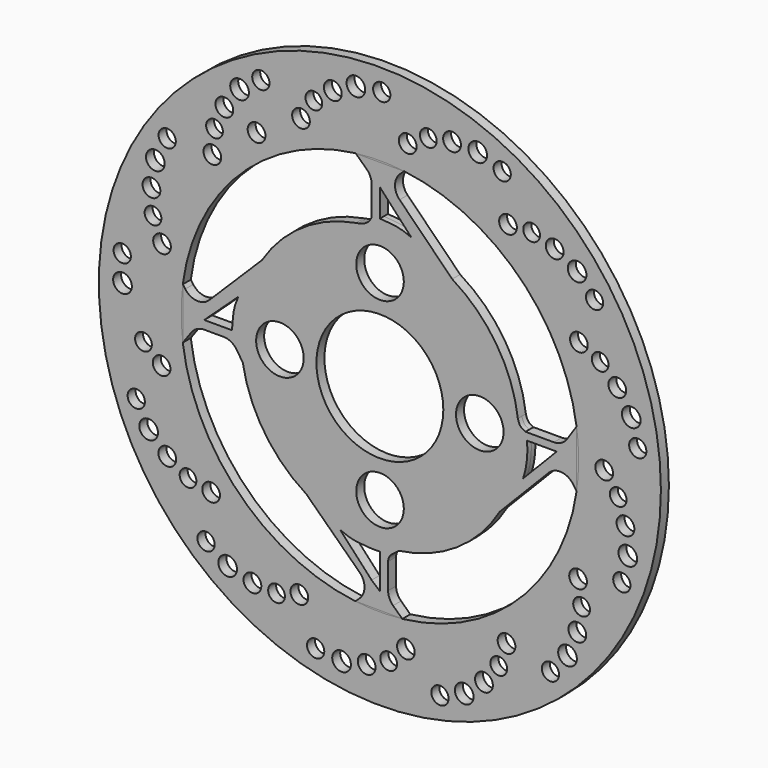
from build123d import *

# Parameters (mm, degrees)
F0_R     = 112.500029
F0_R_2   = 3.73884
F0_R_3   = 3.450075
F0_R_4   = 3.348833
F0_R_5   = 3.541332
F0_R_6   = 3.556889
F1_DEPTH = 1.999996
F0_R_7   = 9.525
F0_R_8   = 25.4
F2_DEPTH = 1.999996
F3_DEPTH = 1.999996


with BuildPart() as f1:
    # F0 (on Front) → F1 (new body, symmetric)
    with BuildSketch(Plane.XZ):
        with Locations((0.049277, 0)):
            Circle(F0_R)
        with Locations((-60.874927, -83.1059)):
            Circle(F0_R_2, mode=Mode.SUBTRACT)
        with Locations((-69.523909, -77.270985)):
            Circle(F0_R_3, mode=Mode.SUBTRACT)
        with Locations((-76.742804, -57.308087)):
            Circle(F0_R_4, mode=Mode.SUBTRACT)
        with Locations((-67.493449, -59.312052)):
            Circle(F0_R_5, mode=Mode.SUBTRACT)
        with Locations((-50.96903, -85.869931)):
            Circle(F0_R_6, mode=Mode.SUBTRACT)
        with Locations((-41.319982, -86.407951)):
            Circle(F0_R_4, mode=Mode.SUBTRACT)
        with Locations((-25.650747, -100.729431)):
            Circle(F0_R_3, mode=Mode.SUBTRACT)
        with Locations((-15.280834, -101.876609)):
            Circle(F0_R_2, mode=Mode.SUBTRACT)
        with Locations((-5.225088, -99.720537)):
            Circle(F0_R_6, mode=Mode.SUBTRACT)
        with Locations((-32.198796, -83.883984)):
            Circle(F0_R_5, mode=Mode.SUBTRACT)
        with Locations((-85.036582, -52.347558)):
            Circle(F0_R_6, mode=Mode.SUBTRACT)
        with Locations((-92.523309, -45.296631)):
            Circle(F0_R_2, mode=Mode.SUBTRACT)
        with Locations((-97.469981, -36.110688)):
            Circle(F0_R_3, mode=Mode.SUBTRACT)
        with Locations((-87.326166, -21.152445)):
            Circle(F0_R_5, mode=Mode.SUBTRACT)
        with Locations((-94.584774, -15.079632)):
            Circle(F0_R_4, mode=Mode.SUBTRACT)
        with Locations((24.098692, -101.111978)):
            Circle(F0_R_3, mode=Mode.SUBTRACT)
        with Locations((3.56875, -95.712793)):
            Circle(F0_R_4, mode=Mode.SUBTRACT)
        with Locations((10.472213, -89.239105)):
            Circle(F0_R_5, mode=Mode.SUBTRACT)
        with Locations((33.813915, -97.308615)):
            Circle(F0_R_2, mode=Mode.SUBTRACT)
        with Locations((41.715859, -90.72637)):
            Circle(F0_R_6, mode=Mode.SUBTRACT)
        with Locations((47.639924, -83.090989)):
            Circle(F0_R_4, mode=Mode.SUBTRACT)
        with Locations((50.744164, -74.150623)):
            Circle(F0_R_5, mode=Mode.SUBTRACT)
        with Locations((68.327411, -78.330989)):
            Circle(F0_R_3, mode=Mode.SUBTRACT)
        with Locations((75.162303, -70.44839)):
            Circle(F0_R_2, mode=Mode.SUBTRACT)
        with Locations((79.100205, -60.947885)):
            Circle(F0_R_6, mode=Mode.SUBTRACT)
        with Locations((80.797366, -51.43404)):
            Circle(F0_R_4, mode=Mode.SUBTRACT)
        with Locations((79.391239, -42.075127)):
            Circle(F0_R_5, mode=Mode.SUBTRACT)
        with Locations((96.903144, -37.605315)):
            Circle(F0_R_3, mode=Mode.SUBTRACT)
        with Locations((98.363648, -17.206974)):
            Circle(F0_R_6, mode=Mode.SUBTRACT)
        with Locations((99.291913, -27.449287)):
            Circle(F0_R_2, mode=Mode.SUBTRACT)
        with Locations((95.445105, -7.994173)):
            Circle(F0_R_4, mode=Mode.SUBTRACT)
        with Locations((89.850737, -0.360726)):
            Circle(F0_R_5, mode=Mode.SUBTRACT)
        with Locations((-102.975715, 2.889551)):
            Circle(F0_R_2, mode=Mode.SUBTRACT)
        with Locations((-103.086856, 13.322133)):
            Circle(F0_R_3, mode=Mode.SUBTRACT)
        with Locations((-87.153511, 21.852933)):
            Circle(F0_R_5, mode=Mode.SUBTRACT)
        with Locations((-90.758513, 30.603385)):
            Circle(F0_R_4, mode=Mode.SUBTRACT)
        with Locations((-91.38748, 40.246932)):
            Circle(F0_R_6, mode=Mode.SUBTRACT)
        with Locations((-89.837626, 50.413771)):
            Circle(F0_R_2, mode=Mode.SUBTRACT)
        with Locations((-85.087774, 59.703013)):
            Circle(F0_R_3, mode=Mode.SUBTRACT)
        with Locations((-67.015037, 59.852067)):
            Circle(F0_R_5, mode=Mode.SUBTRACT)
        with Locations((-66.14057, 69.275536)):
            Circle(F0_R_4, mode=Mode.SUBTRACT)
        with Locations((-62.215913, 78.106768)):
            Circle(F0_R_6, mode=Mode.SUBTRACT)
        with Locations((-49.311078, 73.368203)):
            Circle(F0_R_6, mode=Mode.SUBTRACT)
        with Locations((-31.524226, 84.139814)):
            Circle(F0_R_5, mode=Mode.SUBTRACT)
        with Locations((-56.11882, 86.388804)):
            Circle(F0_R_2, mode=Mode.SUBTRACT)
        with Locations((-47.596108, 92.406653)):
            Circle(F0_R_3, mode=Mode.SUBTRACT)
        with Locations((-26.370619, 92.077496)):
            Circle(F0_R_4, mode=Mode.SUBTRACT)
        with Locations((-18.79143, 98.073285)):
            Circle(F0_R_6, mode=Mode.SUBTRACT)
        with Locations((-9.543868, 102.573203)):
            Circle(F0_R_2, mode=Mode.SUBTRACT)
        with BuildLine():
            ThreePointArc((78.789182, 11.419107), (79.406696, 5.724388), (79.612891, 0))
            ThreePointArc((79.612891, 0), (79.406696, -5.724388), (78.789182, -11.419107))
            ThreePointArc((78.789182, -11.419107), (55.436125, -57.119749), (9.037934, -79.054239))
            ThreePointArc((9.037934, -79.054239), (-0.3546, -79.562589), (-9.741488, -78.958911))
            ThreePointArc((-9.741488, -78.958911), (-56.036633, -56.433496), (-78.847638, -10.278401))
            ThreePointArc((-78.847638, -10.278401), (-79.514338, 0), (-78.847638, 10.278401))
            ThreePointArc((-78.847638, 10.278401), (-56.006958, 56.462973), (-9.658465, 78.969161))
            ThreePointArc((-9.658465, 78.969161), (0.049277, 79.563614), (9.757018, 78.969161))
            ThreePointArc((9.757018, 78.969161), (55.695472, 56.867123), (78.789182, 11.419107))
        make_face(mode=Mode.SUBTRACT)
        with Locations((103.279534, 11.735284)):
            Circle(F0_R_3, mode=Mode.SUBTRACT)
        with Locations((100.674943, 21.838116)):
            Circle(F0_R_2, mode=Mode.SUBTRACT)
        with Locations((79.726515, 41.436312)):
            Circle(F0_R_5, mode=Mode.SUBTRACT)
        with Locations((95.093164, 30.475847)):
            Circle(F0_R_6, mode=Mode.SUBTRACT)
        with Locations((88.22752, 37.277064)):
            Circle(F0_R_4, mode=Mode.SUBTRACT)
        with Locations((51.337908, 73.740791)):
            Circle(F0_R_5, mode=Mode.SUBTRACT)
        with Locations((11.188406, 89.152144)):
            Circle(F0_R_5, mode=Mode.SUBTRACT)
        with Locations((19.440522, 93.785611)):
            Circle(F0_R_4, mode=Mode.SUBTRACT)
        with Locations((0.799252, 103.941042)):
            Circle(F0_R_3, mode=Mode.SUBTRACT)
        with Locations((28.937943, 95.572394)):
            Circle(F0_R_6, mode=Mode.SUBTRACT)
        with Locations((39.217469, 95.259317)):
            Circle(F0_R_2, mode=Mode.SUBTRACT)
        with Locations((49.011513, 91.663791)):
            Circle(F0_R_3, mode=Mode.SUBTRACT)
        with Locations((78.994556, 66.12267)):
            Circle(F0_R_2, mode=Mode.SUBTRACT)
        with Locations((60.798074, 74.008574)):
            Circle(F0_R_4, mode=Mode.SUBTRACT)
        with Locations((70.037983, 71.17702)):
            Circle(F0_R_6, mode=Mode.SUBTRACT)
        with Locations((85.995827, 58.38747)):
            Circle(F0_R_3, mode=Mode.SUBTRACT)
    extrude(amount=F1_DEPTH, both=True)


with BuildPart() as f2:
    # F0 (on Front) → F2 (new body, symmetric)
    with BuildSketch(Plane.XZ):
        with BuildLine():
            ThreePointArc((7.652039, -55.500201), (30.929857, -46.679088), (48.034097, -28.5928))
            ThreePointArc((48.034097, -28.5928), (53.768083, -14.991729), (55.725295, -0.361724))
            ThreePointArc((55.725295, -0.361724), (55.615068, 3.139392), (55.284824, 6.62664))
            ThreePointArc((55.284824, 6.62664), (46.777231, 29.903581), (29.008539, 47.179826))
            ThreePointArc((29.008539, 47.179826), (10.847767, 54.241971), (-8.634302, 54.61146))
            add(Edge.make_bspline(
                [(-8.634302, 54.61146), (-8.909414, 54.557945), (-9.196757, 54.510121), (-9.496864, 54.467967)],
                knots=[6.857604, 6.857604, 6.857604, 6.857604, 7.471253, 7.471253, 7.471253, 7.471253], degree=3))
            ThreePointArc((-9.496864, 54.467967), (-31.039291, 45.791647), (-47.165679, 29.079547))
            ThreePointArc((-47.165679, 29.079547), (-54.520119, 10.49882), (-54.837704, -9.481929))
            ThreePointArc((-54.837704, -9.481929), (-46.200335, -31.297938), (-29.340136, -47.615904))
            ThreePointArc((-29.340136, -47.615904), (-11.53432, -54.796725), (7.652039, -55.500201))
        make_face()
        with Locations((-39.95077, -0.038127)):
            Circle(F0_R_7, mode=Mode.SUBTRACT)
        with Locations((0.111568, -40.043127)):
            Circle(F0_R_7, mode=Mode.SUBTRACT)
        with Locations((40.049324, -0.038127)):
            Circle(F0_R_7, mode=Mode.SUBTRACT)
        with Locations((0.049277, 0)):
            Circle(F0_R_8, mode=Mode.SUBTRACT)
        with Locations((0.111568, 39.966873)):
            Circle(F0_R_7, mode=Mode.SUBTRACT)
        with BuildLine():
            Line((8.100061, 77.407057), (9.68798, 78.904075))
            Line((9.68798, 78.904075), (-9.589427, 78.904075))
            Line((-9.589427, 78.904075), (-5.245344, 74.80867))
            ThreePointArc((-5.245344, 74.80867), (-3.771066, 72.704422), (-3.251275, 70.188241))
            Line((-3.251275, 70.188241), (-3.251275, 58.568239))
            add(Edge.make_bspline(
                [(-3.251275, 58.568239), (-4.012975, 56.518329), (-5.559889, 55.209501), (-8.634302, 54.61146)],
                knots=[0, 0, 0, 0, 6.857604, 6.857604, 6.857604, 6.857604], degree=3))
            ThreePointArc((-8.634302, 54.61146), (10.847767, 54.241971), (29.008539, 47.179826))
            Line((29.008539, 47.179826), (7.957991, 68.304387))
            ThreePointArc((7.957991, 68.304387), (6.106765, 72.885723), (8.100061, 77.407057))
        make_face()
        with BuildLine():
            Line((0.049277, 59.089452), (0.049277, 70.188239))
            Line((0.049277, 70.188239), (12.626842, 56.579992))
            add(Edge.make_bspline(
                [(12.626842, 56.579992), (6.968267, 59.053693), (4.780821, 58.568321), (0.049277, 59.089452)],
                knots=[0, 0, 0, 0, 12.825464, 12.825464, 12.825464, 12.825464], degree=3))
        make_face(mode=Mode.SUBTRACT)
        with BuildLine():
            Line((78.730124, -11.331507), (78.730124, 11.331507))
            Line((78.730124, 11.331507), (74.949023, 5.72303))
            ThreePointArc((74.949023, 5.72303), (72.665608, 3.666325), (69.683823, 2.922701))
            Line((69.683823, 2.922701), (58.325332, 2.922701))
            add(Edge.make_bspline(
                [(58.325332, 2.922701), (56.901749, 3.662608), (56.097351, 3.662608), (55.284824, 6.62664)],
                knots=[0, 0, 0, 0, 4.792061, 4.792061, 4.792061, 4.792061], degree=3))
            ThreePointArc((55.284824, 6.62664), (55.615068, 3.139392), (55.725295, -0.361724))
            ThreePointArc((55.725295, -0.361724), (53.768083, -14.991729), (48.034097, -28.5928))
            Line((48.034097, -28.5928), (67.612378, -8.511441))
            ThreePointArc((67.612378, -8.511441), (72.728341, -6.619822), (77.424297, -9.394584))
            Line((77.424297, -9.394584), (78.730124, -11.331507))
        make_face()
        with BuildLine():
            Line((70.799679, 0), (67.612378, -3.332623))
            Line((67.612378, -3.332623), (57.393795, -13.81378))
            add(Edge.make_bspline(
                [(58.903188, 0), (59.421802, -3.871119), (59.004858, -8.997459), (57.393795, -13.81378)],
                knots=[0, 0, 0, 0, 13.945114, 13.945114, 13.945114, 13.945114], degree=3))
            Line((58.903188, 0), (70.799679, 0))
        make_face(mode=Mode.SUBTRACT)
        with BuildLine():
            Line((-9.670996, -78.892454), (8.977949, -78.997688))
            Line((8.977949, -78.997688), (5.343897, -75.571668))
            ThreePointArc((5.343897, -75.571668), (3.869619, -73.46742), (3.349828, -70.951239))
            Line((3.349828, -70.951239), (3.349828, -60.675389))
            ThreePointArc((3.349828, -60.675389), (3.745485, -58.98472), (4.85028, -57.645193))
            add(Edge.make_bspline(
                [(4.85028, -57.645193), (5.784596, -56.933078), (6.719821, -56.22757), (7.652039, -55.500201)],
                knots=[1.891579, 1.891579, 1.891579, 1.891579, 5.421922, 5.421922, 5.421922, 5.421922], degree=3))
            ThreePointArc((7.652039, -55.500201), (-11.53432, -54.796725), (-29.340136, -47.615904))
            Line((-29.340136, -47.615904), (-8.032839, -68.217118))
            ThreePointArc((-8.032839, -68.217118), (-6.096817, -72.822288), (-8.090759, -77.402678))
            Line((-8.090759, -77.402678), (-9.670996, -78.892454))
        make_face()
        with BuildLine():
            Line((0.049277, -72.235294), (-3.251275, -69.381595))
            Line((-3.251275, -69.381595), (-15.82884, -55.773348))
            add(Edge.make_bspline(
                [(-15.82884, -55.773348), (-10.170265, -58.247048), (-7.982819, -57.761677), (-3.251275, -58.282807)],
                knots=[0, 0, 0, 0, 12.825464, 12.825464, 12.825464, 12.825464], degree=3))
            Line((-3.251275, -58.282807), (0.049277, -58.282807))
            Line((0.049277, -58.282807), (0.049277, -72.235294))
        make_face(mode=Mode.SUBTRACT)
        with BuildLine():
            Line((-77.874241, 8.933458), (-78.775654, 10.178941))
            Line((-78.775654, 10.178941), (-78.781392, -10.186868))
            Line((-78.781392, -10.186868), (-75.425253, -5.549688))
            ThreePointArc((-75.425253, -5.549688), (-73.169186, -3.617455), (-70.281162, -2.922701))
            Line((-70.281162, -2.922701), (-62.575851, -2.922701))
            ThreePointArc((-62.575851, -2.922701), (-59.559304, -3.684952), (-57.266967, -5.788703))
            add(Edge.make_bspline(
                [(-57.266967, -5.788703), (-56.458882, -7.020056), (-55.651641, -8.251549), (-54.837704, -9.481929)],
                knots=[3.430855, 3.430855, 3.430855, 3.430855, 7.851671, 7.851671, 7.851671, 7.851671], degree=3))
            ThreePointArc((-54.837704, -9.481929), (-54.520119, 10.49882), (-47.165679, 29.079547))
            Line((-47.165679, 29.079547), (-68.25728, 8.149151))
            ThreePointArc((-68.25728, 8.149151), (-73.246308, 6.327483), (-77.874241, 8.933458))
        make_face()
        with BuildLine():
            Line((-59.153404, 0.499875), (-70.252191, 0.499875))
            Line((-70.252191, 0.499875), (-56.643944, 13.07744))
            add(Edge.make_bspline(
                [(-56.643944, 13.07744), (-59.117645, 7.418865), (-58.632273, 5.231419), (-59.153404, 0.499875)],
                knots=[0, 0, 0, 0, 12.825464, 12.825464, 12.825464, 12.825464], degree=3))
        make_face(mode=Mode.SUBTRACT)
    extrude(amount=F2_DEPTH, both=True)


with BuildPart() as f3:
    # F0 (on Front) → F3 (new body, symmetric)
    with BuildSketch(Plane.XZ):
        with BuildLine():
            Line((9.68798, 78.904075), (9.757018, 78.969161))
            ThreePointArc((9.757018, 78.969161), (0.049277, 79.563614), (-9.658465, 78.969161))
            Line((-9.658465, 78.969161), (-9.589427, 78.904075))
            Line((-9.589427, 78.904075), (9.68798, 78.904075))
        make_face()
        with BuildLine():
            ThreePointArc((78.789182, -11.419107), (79.406696, -5.724388), (79.612891, 0))
            ThreePointArc((79.612891, 0), (79.406696, 5.724388), (78.789182, 11.419107))
            Line((78.789182, 11.419107), (78.730124, 11.331507))
            Line((78.730124, 11.331507), (78.730124, -11.331507))
            Line((78.730124, -11.331507), (78.789182, -11.419107))
        make_face()
        with BuildLine():
            ThreePointArc((-9.741488, -78.958911), (-0.3546, -79.562589), (9.037934, -79.054239))
            Line((9.037934, -79.054239), (8.977949, -78.997688))
            Line((8.977949, -78.997688), (-9.670996, -78.892454))
            Line((-9.670996, -78.892454), (-9.741488, -78.958911))
        make_face()
        with BuildLine():
            Line((-78.775654, 10.178941), (-78.847638, 10.278401))
            ThreePointArc((-78.847638, 10.278401), (-79.514338, 0), (-78.847638, -10.278401))
            Line((-78.847638, -10.278401), (-78.781392, -10.186868))
            Line((-78.781392, -10.186868), (-78.775654, 10.178941))
        make_face()
    extrude(amount=F3_DEPTH, both=True)


solid = Compound([f1.part, f2.part, f3.part])
